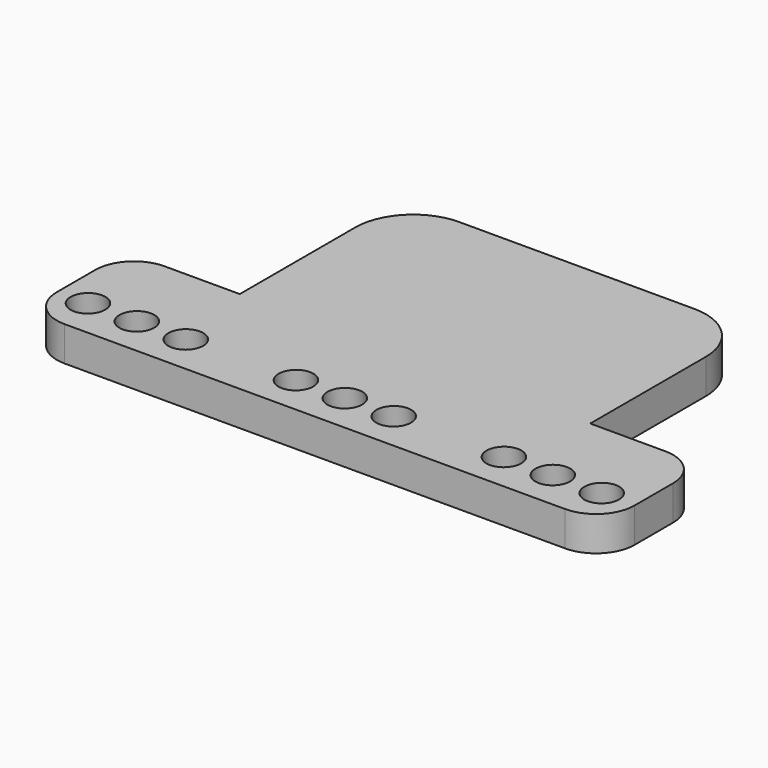
from build123d import *

# Parameters (mm, degrees)
F1_DEPTH = 0.9
F3_R     = 0.45
F4_DEPTH = 25


with BuildPart() as f1:
    # F0 (on Top) → F1 (new body)
    with BuildSketch(Plane.XY):
        with BuildLine():
            ThreePointArc((0, 1), (0.292893, 0.292893), (1, 0))
            Line((1, 0), (14, 0))
            ThreePointArc((14, 0), (14.707107, 0.292893), (15, 1))
            Line((15, 1), (15, 2.25))
            ThreePointArc((15, 2.25), (14.707107, 2.957107), (14, 3.25))
            Line((14, 3.25), (12.05, 3.25))
            Line((12.05, 3.25), (12.05, 7))
            ThreePointArc((12.05, 7), (11.61066, 8.06066), (10.55, 8.5))
            Line((10.55, 8.5), (4.45, 8.5))
            ThreePointArc((4.45, 8.5), (3.38934, 8.06066), (2.95, 7))
            Line((2.95, 7), (2.95, 3.25))
            Line((2.95, 3.25), (1, 3.25))
            ThreePointArc((1, 3.25), (0.292893, 2.957107), (0, 2.25))
            Line((0, 2.25), (0, 1))
        make_face()
    extrude(amount=F1_DEPTH)

    # F3 (on face) → F4 (cut)
    with BuildSketch(Plane(origin=(0, -0.124037, 0.882568), x_dir=(1, 0, 0), z_dir=(0, 0.139173, -0.990268))):
        with Locations((0.8, -1.125256)):
            Circle(F3_R)
        with Locations((2.07, -1.125256)):
            Circle(F3_R)
        with Locations((3.34, -1.125256)):
            Circle(F3_R)
        with Locations((6.2, -1.125256)):
            Circle(F3_R)
        with Locations((7.47, -1.125256)):
            Circle(F3_R)
        with Locations((8.74, -1.125256)):
            Circle(F3_R)
        with Locations((11.6, -1.125256)):
            Circle(F3_R)
        with Locations((12.87, -1.125256)):
            Circle(F3_R)
        with Locations((14.14, -1.125256)):
            Circle(F3_R)
    extrude(amount=F4_DEPTH, mode=Mode.SUBTRACT)


solid = f1.part
